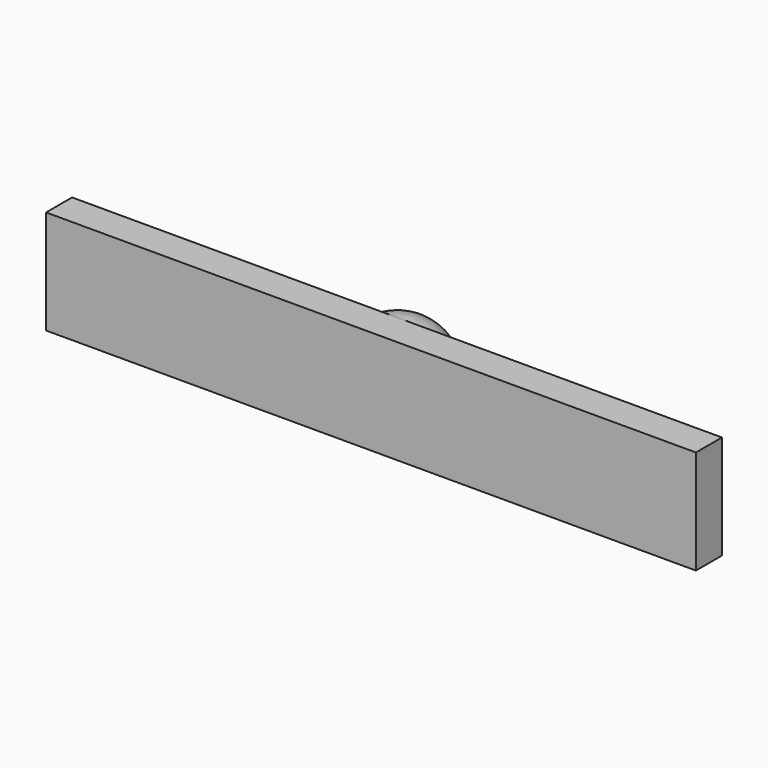
from build123d import *

# Parameters (mm, degrees)
F0_W     = 63.5
F0_H     = 10.16
F1_DEPTH = 3.175


with BuildPart() as f1:
    # F0 (on Front) → F1 (new body)
    with BuildSketch(Plane.XZ):
        Rectangle(F0_W, F0_H)
    extrude(amount=F1_DEPTH)

    # F2 (on Top) → F3 (revolve)
    with BuildSketch(Plane.XY):
        with BuildLine():
            Line((0, 0), (5.08, 0))
            ThreePointArc((5.08, 0), (3.592102, 3.592102), (0, 5.08))
            Line((0, 5.08), (0, 0))
        make_face()
    revolve(axis=Axis((0, 2.54, 0), (0, 1, 0)))


solid = f1.part
